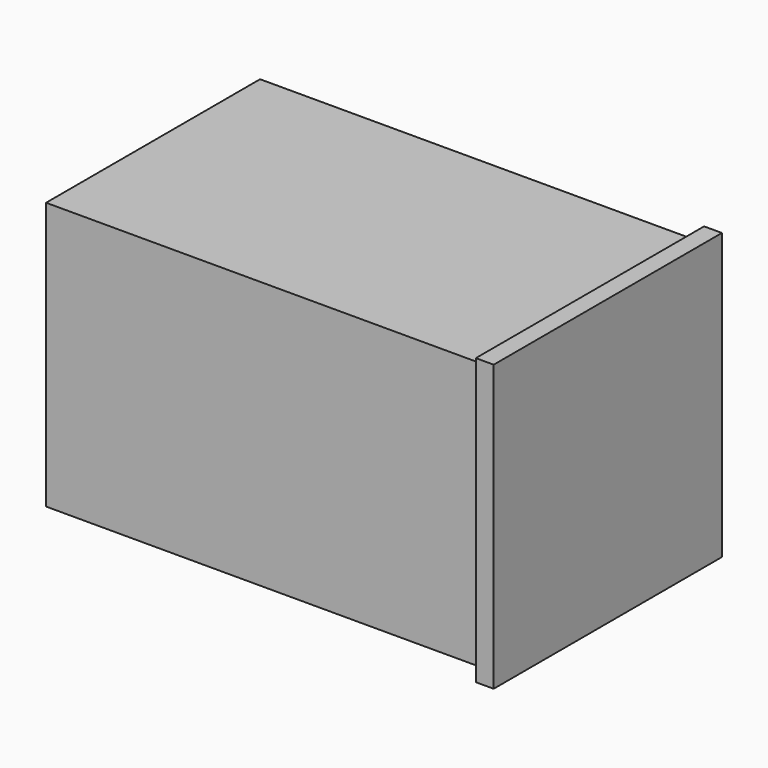
from build123d import *

# Parameters (mm, degrees)
F0_W     = 47.625
F0_H     = 47.625
F1_DEPTH = 77.7875
F2_W     = 50.8
F2_H     = 50.8
F3_DEPTH = 3.175


with BuildPart() as f1:
    # F0 (on Right) → F1 (new body)
    with BuildSketch(Plane.YZ):
        Rectangle(F0_W, F0_H)
    extrude(amount=F1_DEPTH)

    # F2 (on face) → F3 (join)
    with BuildSketch(Plane.YZ.offset(77.7875)):
        Rectangle(F2_W, F2_H)
    extrude(amount=F3_DEPTH)


solid = f1.part
